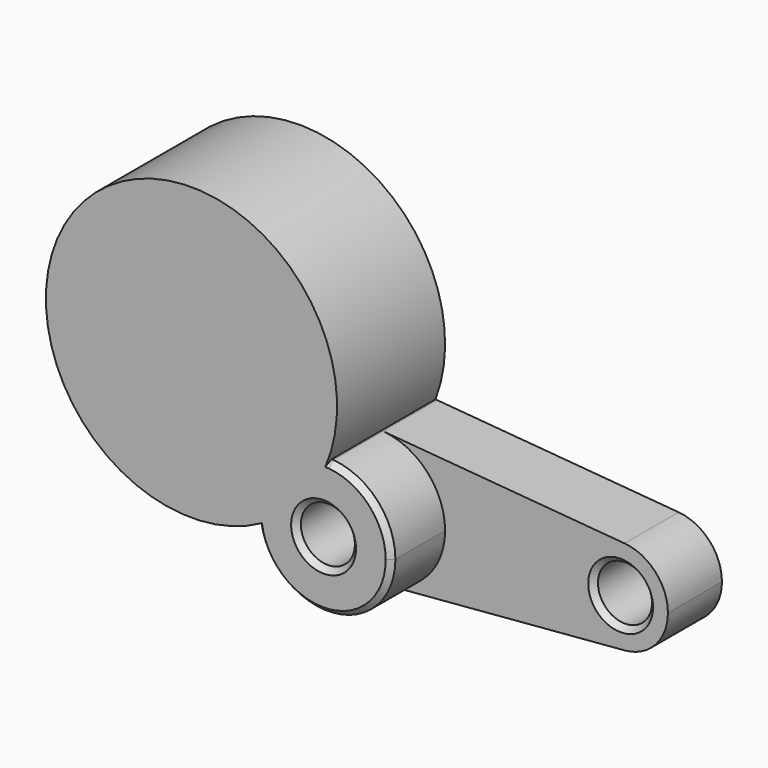
from build123d import *

# Parameters (mm, degrees)
F0_R     = 10
F1_DEPTH = 25
F2_DEPTH = 50
F3_SIZE  = 2
F4_R     = 53.910386
F6_DEPTH = 50


with BuildPart() as f1:
    # F0 (on Front) → F1 (new body)
    with BuildSketch(Plane.XZ):
        with BuildLine():
            ThreePointArc((2.083333, -24.913043), (18.399502, -16.92508), (25, 0))
            ThreePointArc((25, 0), (18.399502, 16.92508), (2.083333, 24.913043))
            ThreePointArc((2.083333, 24.913043), (-25, 0), (2.083333, -24.913043))
        make_face()
        Circle(F0_R, mode=Mode.SUBTRACT)
        with BuildLine():
            ThreePointArc((2.083333, 24.913043), (18.399502, 16.92508), (25, 0))
            ThreePointArc((25, 0), (18.399502, -16.92508), (2.083333, -24.913043))
            Line((2.083333, -24.913043), (91.458333, -17.43913))
            ThreePointArc((91.458333, -17.43913), (72.5, 0), (91.458333, 17.43913))
            Line((91.458333, 17.43913), (2.083333, 24.913043))
        make_face()
        with BuildLine():
            ThreePointArc((107.5, 0), (102.879651, 11.847556), (91.458333, 17.43913))
            ThreePointArc((91.458333, 17.43913), (72.5, 0), (91.458333, -17.43913))
            ThreePointArc((91.458333, -17.43913), (102.879651, -11.847556), (107.5, 0))
        make_face()
        with Locations((90, 0)):
            Circle(F0_R, mode=Mode.SUBTRACT)
    extrude(amount=F1_DEPTH)

    # F0 (on Front) → F2 (join)
    with BuildSketch(Plane.XZ):
        with BuildLine():
            ThreePointArc((2.083333, -24.913043), (18.399502, -16.92508), (25, 0))
            ThreePointArc((25, 0), (18.399502, 16.92508), (2.083333, 24.913043))
            ThreePointArc((2.083333, 24.913043), (-25, 0), (2.083333, -24.913043))
        make_face()
        Circle(F0_R, mode=Mode.SUBTRACT)
    extrude(amount=F2_DEPTH)

    # F3
    f3_edges = [f1.edges().sort_by_distance(p)[0] for p in [
        (-2.083333, -50, 24.913043),
        (-10, -50, 0),
        (80, -25, 0),
    ]]
    chamfer(f3_edges, length=F3_SIZE)

    # F4 (on Front) → F6 (join)
    with BuildSketch(Plane.XZ):
        with Locations((-48.911478, 44.221319)):
            Circle(F4_R)
    extrude(amount=F6_DEPTH)


solid = f1.part
